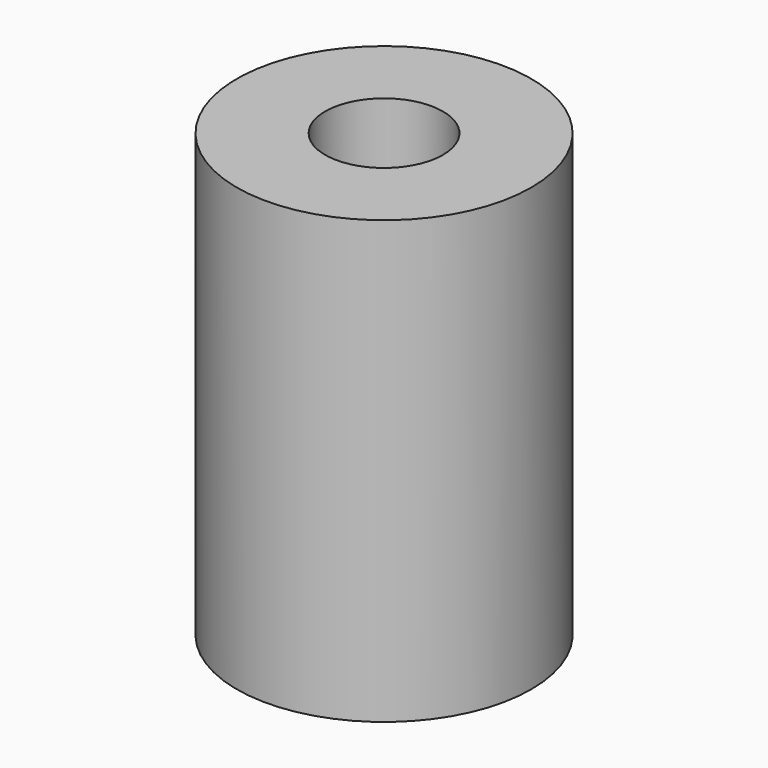
from build123d import *

# Parameters (mm, degrees)
SKETCH_R        = 10
PAD_DEPTH       = 30
SKETCH001_R     = 4
POCKET_DEPTH    = 15
SKETCH002_R     = 3.25
POCKET001_DEPTH = 15


with BuildPart() as part:
    # Sketch → Pad (new body)
    with BuildSketch(Plane.XY):
        Circle(SKETCH_R)
    extrude(amount=PAD_DEPTH)

    # Sketch001 (on Face3 of Pad) → Pocket (cut)
    with BuildSketch(Plane.XY.offset(30)):
        Circle(SKETCH001_R)
    extrude(amount=-POCKET_DEPTH, mode=Mode.SUBTRACT)

    # Sketch002 (on Face2 of Pocket) → Pocket001 (cut)
    with BuildSketch(Plane(origin=(0, 0, 0), x_dir=(1, 0, 0), z_dir=(0, 0, -1))):
        Circle(SKETCH002_R)
    extrude(amount=-POCKET001_DEPTH, mode=Mode.SUBTRACT)


solid = part.part
